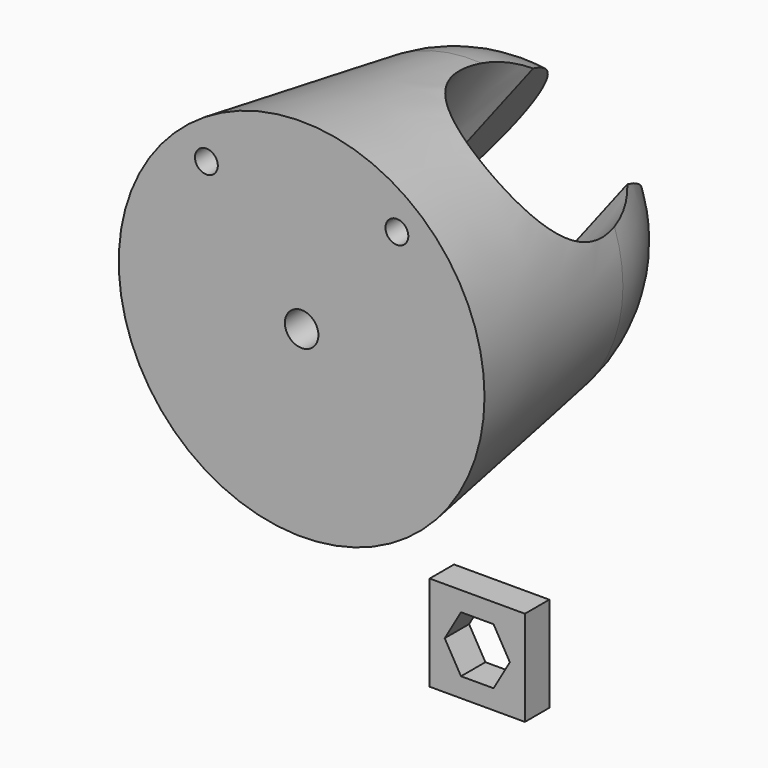
from build123d import *

# Parameters (mm, degrees)
F3_DEPTH  = 25
F7_R      = 2.2
F8_DEPTH  = 5.5
F9_R      = 4.5
F10_DEPTH = 37.9383941675
F11_W     = 12.5
F11_H     = 12.5
F12_DEPTH = 4
F13_R     = 1.5
F14_DEPTH = 12


with BuildPart() as f1:
    # F0 (on Front) → F1 (revolve)
    with BuildSketch(Plane.XZ):
        Polygon((-23.4659114849, -13.5867949931), (-15.0964447363, -19.9273017823), (15.0964447363, 19.9273017823), (5.9298859165, 26.871666361), align=None)
    revolve(axis=Axis((0, 0, 0), (0.6038577895, 0, 0.7970920713)))

    # F2 (on Front) → F3 (join)
    with BuildSketch(Plane.XZ):
        Polygon((-8.9189811838, -24.6071996506), (21.2739082888, 15.2474039141), (8.9189811838, 24.6071996506), (-21.2739082888, -15.2474039141), align=None)
    extrude(amount=-F3_DEPTH)


with BuildPart() as f5:
    # F4 (on Top) → F5 (revolve)
    with BuildSketch(Plane.XY):
        with BuildLine():
            Line((0, 20), (0, -25))
            Line((0, -25), (24, -25))
            Line((24, -25), (19.7759964181, 2.9849565613))
            ThreePointArc((19.7759964181, 2.9849565613), (13.0441724301, 15.160790402), (0, 20))
        make_face()
    revolve(axis=Axis((0, -2.5, 0), (0, -1, 0)))

    # F6: cut F1
    add(f1.part, mode=Mode.SUBTRACT)

    # F7 (on face) → F8 (cut)
    with BuildSketch(Plane.XZ.offset(25)):
        Circle(F7_R)
    extrude(amount=-F8_DEPTH, mode=Mode.SUBTRACT)

    # F9 (on face) → F10 (cut, through all)
    with BuildSketch(Plane.XZ.offset(19.5)):
        Circle(F9_R)
    extrude(amount=-F10_DEPTH, mode=Mode.SUBTRACT)

    # F13 (on face) → F14 (cut)
    with BuildSketch(Plane.XZ.offset(25)):
        with Locations((-12.5, 15.2909286834)):
            Circle(F13_R)
        with Locations((12.5, 15.2909286834)):
            Circle(F13_R)
    extrude(amount=-F14_DEPTH, mode=Mode.SUBTRACT)


with BuildPart() as f12:
    # F11 (on Front) → F12 (new body)
    with BuildSketch(Plane.XZ):
        with Locations((6.25, -43.6086319515)):
            Rectangle(F11_W, F11_H)
        Polygon((1.977608008, -43.6086319515), (4.113804004, -39.9086319515), (8.386195996, -39.9086319515), (10.522391992, -43.6086319515), (8.386195996, -47.3086319515), (4.113804004, -47.3086319515), align=None, mode=Mode.SUBTRACT)
    extrude(amount=F12_DEPTH)


solid = Compound([f5.part, f12.part])
